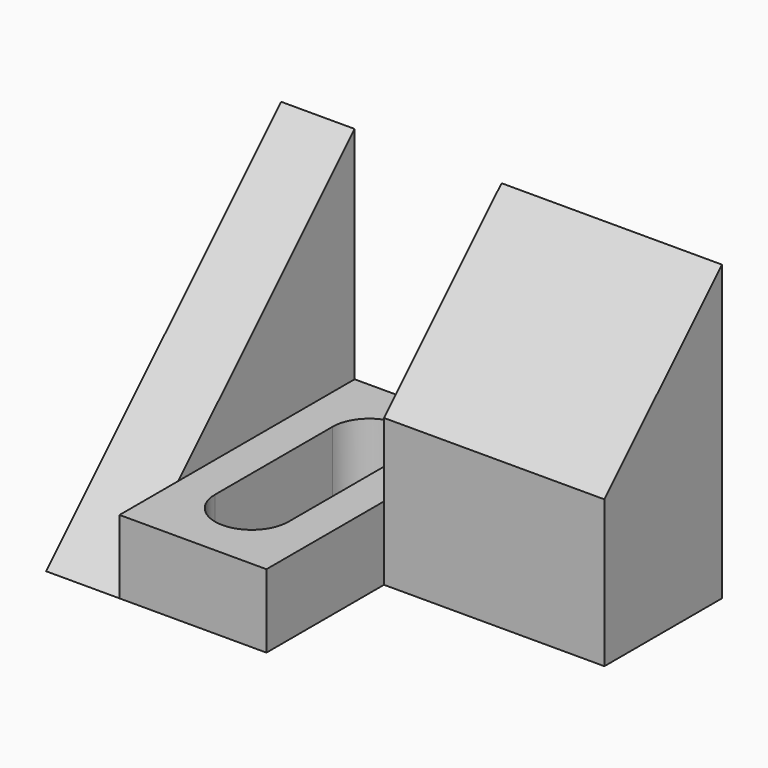
from build123d import *

# Parameters (mm, degrees)
F1_DEPTH = 38.1
F3_DEPTH = 31.75
F4_W     = 12.7
F4_H     = 19.05
F5_DEPTH = 25.4
F6_W     = 12.7
F6_H     = 12.7
F7_DEPTH = 6.35
F9_DEPTH = 25.4


with BuildPart() as f1:
    # F0 (on Right) → F1 (new body)
    with BuildSketch(Plane.YZ):
        Polygon((25.4, 25.4), (0, 0), (25.4, 0), align=None)
    extrude(amount=-F1_DEPTH)

    # F2 (on face) → F3 (cut)
    with BuildSketch(Plane.YZ):
        Polygon((0, 0), (12.7, 0), (12.7, 12.7), align=None)
    extrude(amount=-F3_DEPTH, mode=Mode.SUBTRACT)

    # F4 (on face) → F5 (cut)
    with BuildSketch(Plane(origin=(0, 25.4, 0), x_dir=(-1, 0, 0), z_dir=(0, 1, 0))):
        with Locations((25.4, 15.875)):
            Rectangle(F4_W, F4_H)
    extrude(amount=-F5_DEPTH, mode=Mode.SUBTRACT)

    # F6 (on face) → F7 (join)
    with BuildSketch(Plane(origin=(0, 0, 0), x_dir=(1, 0, 0), z_dir=(0, 0, -1))):
        with Locations((-25.4, -6.35)):
            Rectangle(F6_W, F6_H)
    extrude(amount=-F7_DEPTH)

    # F8 (on face) → F9 (cut)
    with BuildSketch(Plane.XY.offset(6.35)):
        with BuildLine():
            Line((-28.575, 19.05), (-28.575, 6.35))
            ThreePointArc((-28.575, 6.35), (-25.4, 3.175), (-22.225, 6.35))
            Line((-22.225, 6.35), (-22.225, 19.05))
            ThreePointArc((-22.225, 19.05), (-25.4, 22.225), (-28.575, 19.05))
        make_face()
    extrude(amount=-F9_DEPTH, mode=Mode.SUBTRACT)


solid = f1.part
